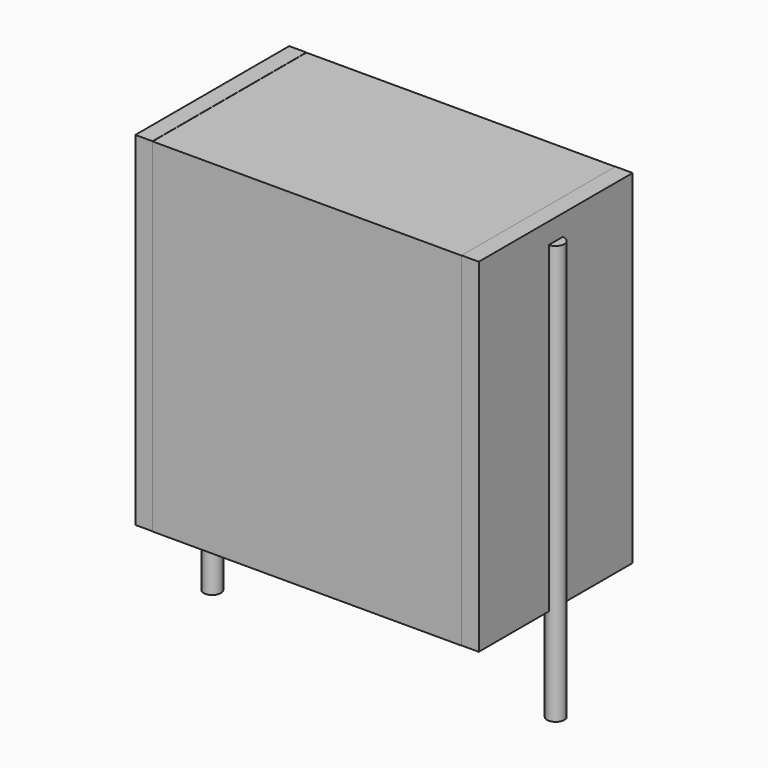
from build123d import *

# Parameters (mm, degrees)
SKETCH_W          = 9
SKETCH_H          = 5.6
PAD_DEPTH         = 10
SKETCH001_R       = 0.25
PAD001_DEPTH      = 9
PAD001_DEPTH_BACK = 3.2
SKETCH002_W       = 0.5
SKETCH002_H       = 5.6
PAD002_DEPTH      = 10


with BuildPart() as pad:
    # Sketch → Pad (new body)
    with BuildSketch(Plane.XY.offset(0.1)):
        with Locations((5, 0)):
            Rectangle(SKETCH_W, SKETCH_H)
    extrude(amount=PAD_DEPTH)


with BuildPart() as pad001:
    # Sketch001 → Pad001 (new body, two sides)
    with BuildSketch(Plane.XY.offset(0.5)) as pad001_sk:
        Circle(SKETCH001_R)
        with Locations((10, 0)):
            Circle(SKETCH001_R)
    extrude(amount=PAD001_DEPTH)
    extrude(pad001_sk.sketch, amount=-PAD001_DEPTH_BACK)


with BuildPart() as pad002:
    # Sketch002 → Pad002 (new body)
    with BuildSketch(Plane.XY.offset(0.105)):
        with Locations((0.25, 0)):
            Rectangle(SKETCH002_W, SKETCH002_H)
        with Locations((9.75, 0)):
            Rectangle(SKETCH002_W, SKETCH002_H)
    extrude(amount=PAD002_DEPTH)


solid = Compound([pad.part, pad001.part, pad002.part])
